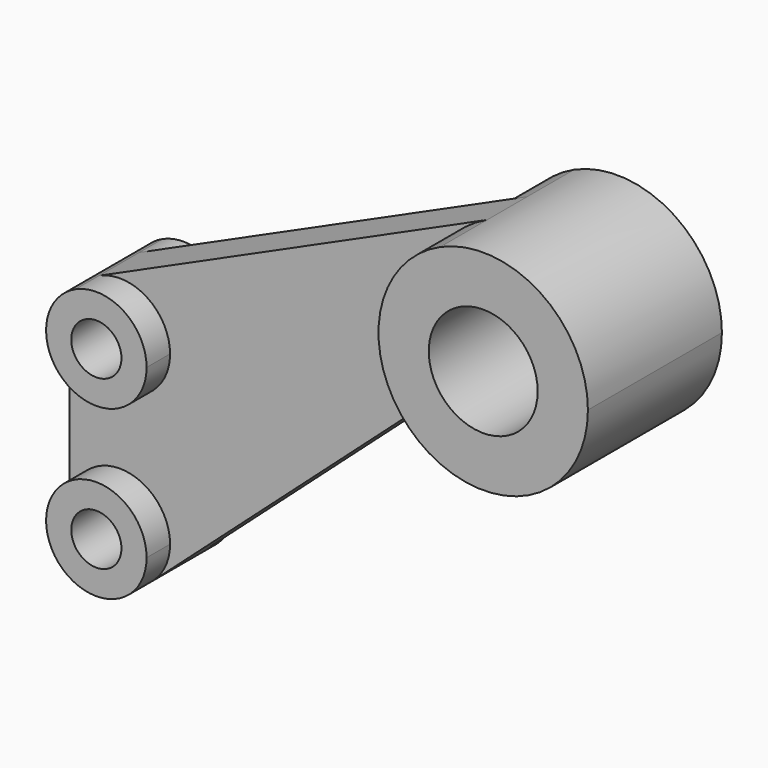
from build123d import *

# Parameters (mm, degrees)
F0_R     = 13.0048
F1_DEPTH = 20.0025
F2_DEPTH = 5.9944
F0_R_2   = 5.9944
F3_DEPTH = 13.0048


with BuildPart() as f1:
    # F0 (on Front) → F1 (new body, symmetric)
    with BuildSketch(Plane.XZ):
        with BuildLine():
            ThreePointArc((-12.949346, -21.392276), (12.278025, -21.784516), (25.0063, 0))
            ThreePointArc((25.0063, 0), (13.562501, 21.008894), (-10.294693, 22.788908))
            ThreePointArc((-10.294693, 22.788908), (-24.961282, 1.499814), (-12.949346, -21.392276))
        make_face()
        Circle(F0_R, mode=Mode.SUBTRACT)
    extrude(amount=F1_DEPTH, both=True)

    # F0 (on Front) → F2 (join, symmetric)
    with BuildSketch(Plane.XZ):
        with BuildLine():
            ThreePointArc((-12.949346, -21.392276), (-24.961282, 1.499814), (-10.294693, 22.788908))
            Line((-10.294693, 22.788908), (-102.934025, -19.060113))
            ThreePointArc((-102.934025, -19.060113), (-91.484026, -19.914411), (-85.9917, -29.9974))
            ThreePointArc((-85.9917, -29.9974), (-97.9932, -41.9989), (-109.9947, -29.9974))
            Line((-109.9947, -29.9974), (-109.9947, -70.0024))
            ThreePointArc((-109.9947, -70.0024), (-97.9932, -58.0009), (-85.9917, -70.0024))
            ThreePointArc((-85.9917, -70.0024), (-87.036779, -74.90065), (-89.990008, -78.945829))
            Line((-89.990008, -78.945829), (-27.152389, -22.714435))
            ThreePointArc((-27.152389, -22.714435), (-20.268898, -19.711211), (-12.949346, -21.392276))
        make_face()
    extrude(amount=F2_DEPTH, both=True)

    # F0 (on Front) → F3 (join, symmetric)
    with BuildSketch(Plane.XZ):
        with BuildLine():
            ThreePointArc((-85.9917, -29.9974), (-91.484026, -19.914411), (-102.934025, -19.060113))
            ThreePointArc((-102.934025, -19.060113), (-108.076189, -23.488226), (-109.9947, -29.9974))
            ThreePointArc((-109.9947, -29.9974), (-97.9932, -41.9989), (-85.9917, -29.9974))
        make_face()
        with Locations((-97.9932, -29.9974)):
            Circle(F0_R_2, mode=Mode.SUBTRACT)
        with BuildLine():
            ThreePointArc((-109.9947, -70.0024), (-102.89145, -80.958821), (-89.990008, -78.945829))
            ThreePointArc((-89.990008, -78.945829), (-87.036779, -74.90065), (-85.9917, -70.0024))
            ThreePointArc((-85.9917, -70.0024), (-97.9932, -58.0009), (-109.9947, -70.0024))
        make_face()
        with Locations((-97.9932, -70.0024)):
            Circle(F0_R_2, mode=Mode.SUBTRACT)
    extrude(amount=F3_DEPTH, both=True)


solid = f1.part
